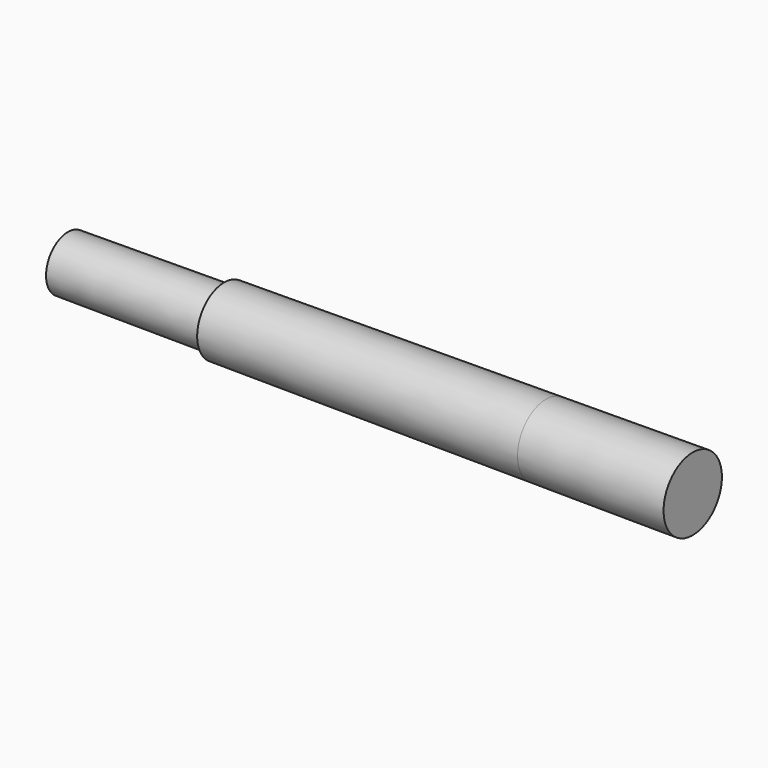
from build123d import *


with BuildPart() as f2:
    # F1 (on Top) → F2 (revolve)
    with BuildSketch(Plane.XY):
        Polygon((31.9, 0), (48.9, 0), (48.9, 3.073067), (31.903461, 2.97501), align=None)
        Polygon((48.9, 0), (83.9, 0), (83.9, 3.875), (48.9, 3.673077), (48.903461, 3.073087), (48.9, 3.073067), align=None)
        Polygon((83.9, 3.875), (83.9, 0), (99.855002, 0), (99.855002, 3.967048), align=None)
    revolve(axis=Axis((24.45, 0, 0), (1, 0, 0)))


solid = f2.part
